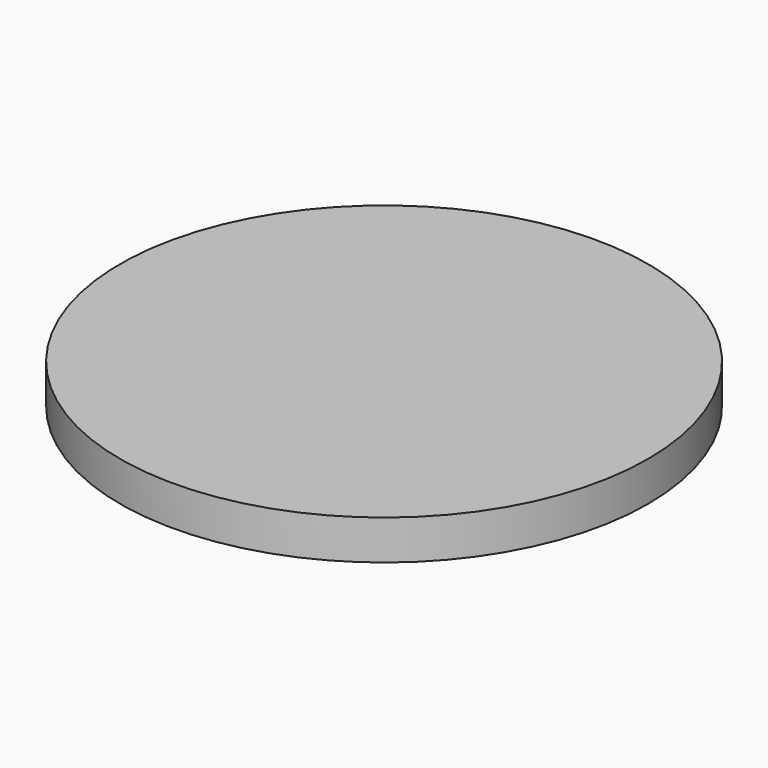
from build123d import *

# Parameters (mm, degrees)
SKETCH_R         = 20
EXTRUDE_DEPTH    = 3
EXTRUDE001_DEPTH = 3


with BuildPart() as extrude_body:
    # Sketch → Extrude (new body)
    with BuildSketch(Plane.XY):
        Circle(SKETCH_R)
    extrude(amount=EXTRUDE_DEPTH)


with BuildPart() as extrude001:
    # Sketch → Extrude001 (new body)
    with BuildSketch(Plane.XY):
        Circle(SKETCH_R)
    extrude(amount=EXTRUDE001_DEPTH)


solid = Compound([extrude_body.part, extrude001.part])
